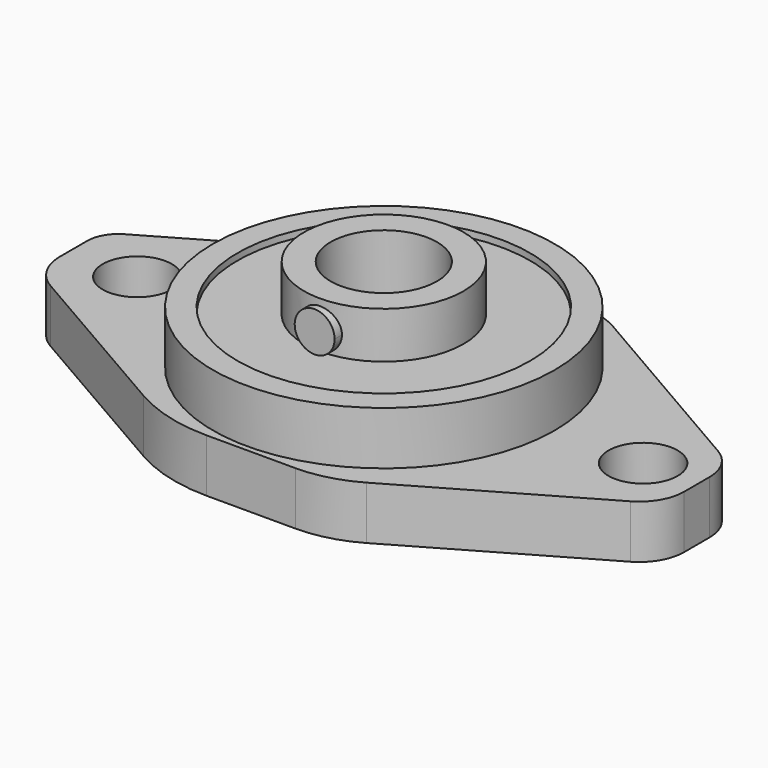
from build123d import *

# Parameters (mm, degrees)
SKETCH_R        = 12.85
PAD_DEPTH       = 4
SKETCH003_R     = 11
POCKET_DEPTH    = 0.5
SKETCH004_R     = 6
PAD001_DEPTH    = 3.5
SKETCH006_R     = 1.5
PAD002_DEPTH    = 6.5
SKETCH005_R     = 4
POCKET001_DEPTH = 7.001
SKETCH007_R     = 2.6
PAD003_DEPTH    = 4


with BuildPart() as part:
    # Sketch → Pad (new body)
    with BuildSketch(Plane.XY):
        Circle(SKETCH_R)
    extrude(amount=PAD_DEPTH)

    # Sketch003 → Pocket (cut)
    with BuildSketch(Plane.XY.offset(4)):
        Circle(SKETCH003_R)
    extrude(amount=-POCKET_DEPTH, mode=Mode.SUBTRACT)

    # Sketch004 (on Face5 of Pocket) → Pad001 (join)
    with BuildSketch(Plane.XY.offset(3.5)):
        Circle(SKETCH004_R)
    extrude(amount=PAD001_DEPTH)

    # Sketch006 → Pad002 (join)
    with BuildSketch(Plane.XZ):
        with Locations((0, 5)):
            Circle(SKETCH006_R)
    extrude(amount=PAD002_DEPTH)

    # Sketch005 (on Face7 of Pad001) → Pocket001 (cut, through all)
    with BuildSketch(Plane.XY.offset(7)):
        Circle(SKETCH005_R)
    extrude(amount=-POCKET001_DEPTH, mode=Mode.SUBTRACT)

    # Sketch007 → Pad003 (join)
    with BuildSketch(Plane.XY):
        with BuildLine():
            Line((-3.542445, 13.25), (4.373404, 13.25))
            ThreePointArc((7.251161, 12.477086), (5.863276, 13.053407), (4.373404, 13.25))
            Line((7.251161, 12.477086), (21.969939, 3.956011))
            ThreePointArc((23.65, 1.04209), (23.1999, 2.72387), (21.969939, 3.956011))
            Line((23.65, 1.04209), (23.65, -1.322208))
            ThreePointArc((21.959502, -4.246432), (23.196964, -3.011059), (23.65, -1.322208))
            Line((8.3652, -12.074699), (21.959502, -4.246432))
            ThreePointArc((3.969015, -13.25), (6.244305, -12.951104), (8.3652, -12.074699))
            Line((3.969015, -13.25), (-2.715889, -13.25))
            ThreePointArc((-8.759411, -11.630643), (-5.844246, -12.838144), (-2.715889, -13.25))
            Line((-21.777636, -4.114568), (-8.759411, -11.630643))
            ThreePointArc((-23.65, -0.871538), (-23.148302, -2.743902), (-21.777636, -4.114568))
            Line((-23.65, -0.871538), (-23.65, 1.686966))
            ThreePointArc((-22.483817, 3.706854), (-23.337522, 2.853149), (-23.65, 1.686966))
            Line((-8.043592, 12.043921), (-22.483817, 3.706854))
            ThreePointArc((-3.542445, 13.25), (-5.87241, 12.943254), (-8.043592, 12.043921))
        make_face()
        with Locations((-18.5, -0.045589)):
            Circle(SKETCH007_R, mode=Mode.SUBTRACT)
        with Locations((19.5, 0)):
            Circle(SKETCH007_R, mode=Mode.SUBTRACT)
    extrude(amount=-PAD003_DEPTH)


solid = part.part
